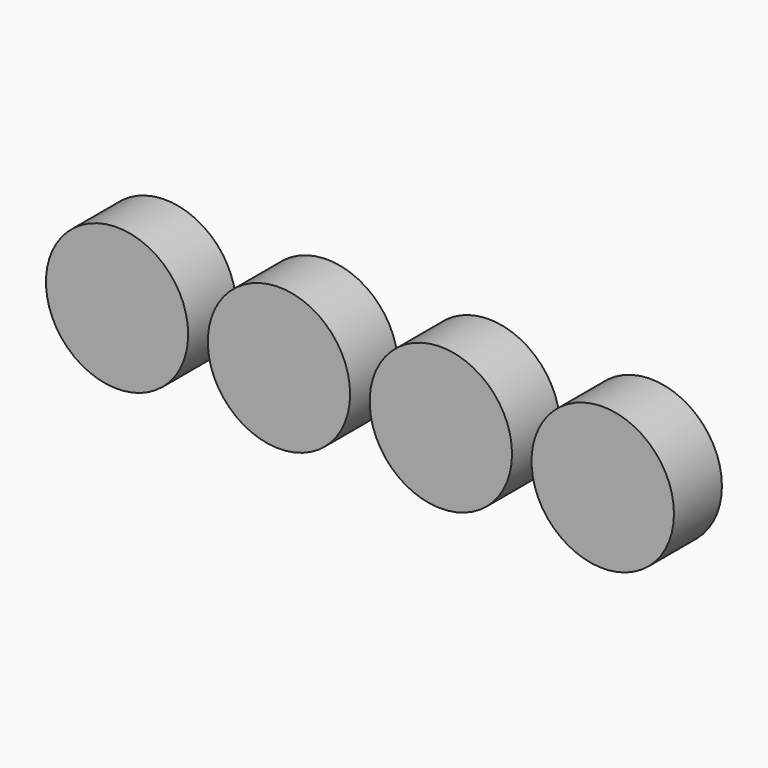
from build123d import *

# Parameters (mm, degrees)
F0_R     = 30.1244
F0_R_2   = 30.1371
F0_R_3   = 30.1498
F0_R_4   = 30.1625
F1_DEPTH = 25.4


with BuildPart() as f1:
    # F0 (on Front) → F1 (new body)
    with BuildSketch(Plane.XZ):
        with Locations((-85.724999, 0)):
            Circle(F0_R)
        with Locations((-17.144999, 0)):
            Circle(F0_R_2)
        with Locations((51.435001, 0)):
            Circle(F0_R_3)
        with Locations((120.015001, 0)):
            Circle(F0_R_4)
    extrude(amount=F1_DEPTH)


solid = f1.part
